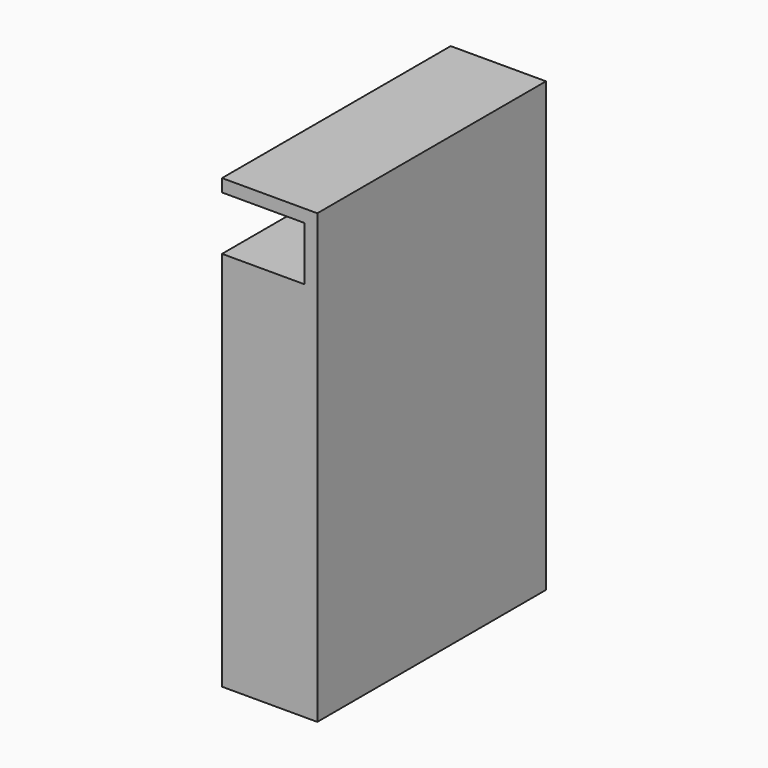
from build123d import *

# Parameters (mm, degrees)
SKETCH031_W  = 13
SKETCH031_H  = 45
PAD029_DEPTH = 8.5
SKETCH032_W  = 15
SKETCH032_H  = 45
PAD030_DEPTH = 70.5


with BuildPart() as body032:
    # Sketch031 → Pad029 (new body)
    with BuildSketch(Plane.XY):
        with Locations((-28.5, -16.5)):
            Rectangle(SKETCH031_W, SKETCH031_H)
    extrude(amount=PAD029_DEPTH)


with BuildPart() as body032_1:
    # Body032 placement: moved
    add(body032.part.moved(Location((58, -21.5, 2))))


with BuildPart() as cut031:
    # Sketch032 → Pad030 (new body)
    with BuildSketch(Plane.XY):
        with Locations((-27.5, -16.5)):
            Rectangle(SKETCH032_W, SKETCH032_H)
    extrude(amount=PAD030_DEPTH)


with BuildPart() as cut031_1:
    # Body033 placement: moved
    add(cut031.part.moved(Location((58, -21.5, -58))))

    # Cut031: cut Body032
    add(body032_1.part, mode=Mode.SUBTRACT)


solid = cut031_1.part
